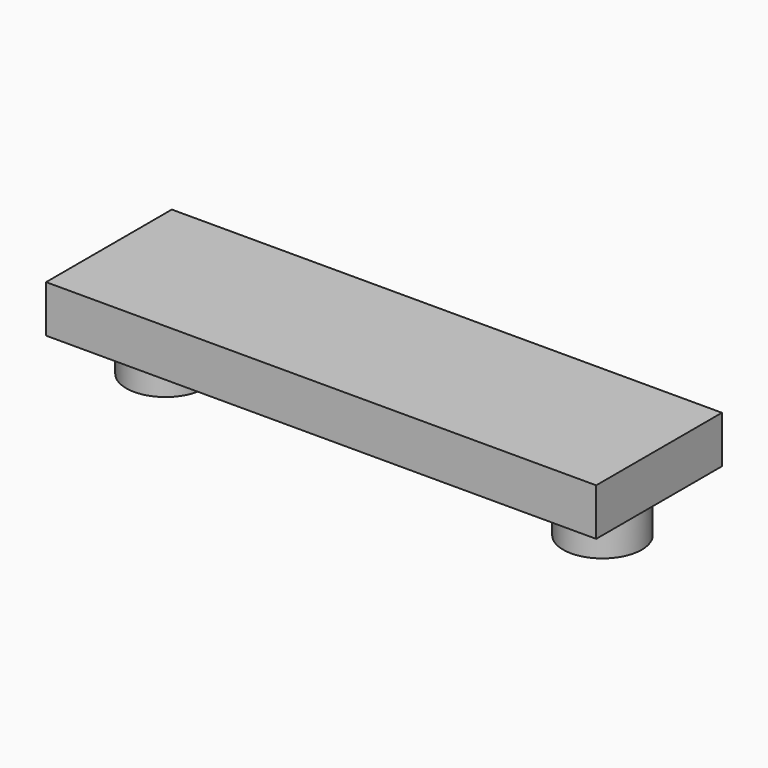
from build123d import *

# Parameters (mm, degrees)
F0_W     = 88.9
F0_H     = 25.4
F1_DEPTH = 3.81
F3_R     = 6.35
F4_DEPTH = 7.62


with BuildPart() as f1:
    # F0 (on Top) → F1 (new body, symmetric)
    with BuildSketch(Plane.XY):
        Rectangle(F0_W, F0_H)
    extrude(amount=F1_DEPTH, both=True)

    # F3 (on offset) → F4 (join)
    with BuildSketch(Plane.XY.offset(-3.81)):
        with Locations((-35.306, 0)):
            Circle(F3_R)
        with Locations((35.306, 0)):
            Circle(F3_R)
    extrude(amount=-F4_DEPTH)


solid = f1.part
